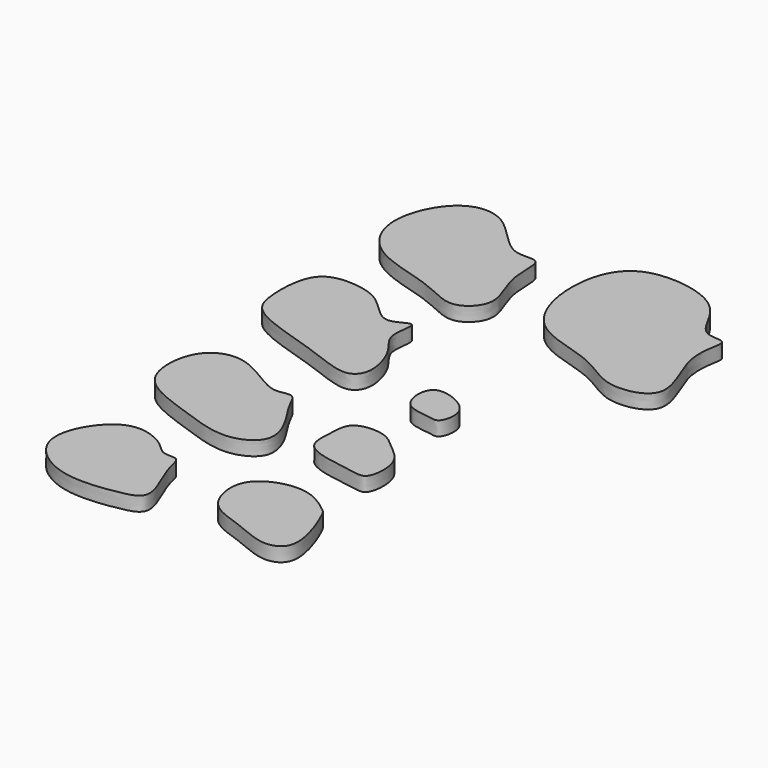
from build123d import *

# Parameters (mm, degrees)
F8_DEPTH  = 3.5
F9_DEPTH  = 3.5
F10_DEPTH = 3.5
F11_DEPTH = 3.5
F12_DEPTH = 3.5
F13_DEPTH = 3.5
F14_DEPTH = 3.5
F15_DEPTH = 3.5


with BuildPart() as f8:
    # F0 (on Top) → F8 (new body)
    with BuildSketch(Plane.XY):
        with BuildLine():
            add(Edge.make_bspline(
                [(-37.2361131012, 51.5277832747), (-38.2300729574, 52.3986394205), (-44.036762983, 50.2357705605), (-52.1517819646, 62.8871695915), (-64.3112124826, 62.6381784223), (-71.2933781765, 47.7331883556), (-64.2014965173, 34.439514822), (-47.3363921409, 31.8622921467), (-38.5041296174, 25.6709240677), (-30.9361444778, 33.0846962537), (-37.4475096921, 42.7405705933), (-36.0330480055, 50.473719948), (-37.2361131012, 51.5277832747)],
                knots=[0, 0, 0, 0, 0.0722302205, 0.1855815516, 0.2816265748, 0.3968802174, 0.5077571251, 0.6332956957, 0.7286909, 0.8102581589, 0.9125742789, 1, 1, 1, 1], degree=3))
        make_face()
    extrude(amount=F8_DEPTH)


with BuildPart() as f9:
    # F1 (on Top) → F9 (new body)
    with BuildSketch(Plane.XY):
        with BuildLine():
            add(Edge.make_bspline(
                [(-39.374999702, 16.1388907582), (-39.9706018324, 16.5570736635), (-43.5572313633, 13.7105187899), (-47.4507729776, 16.0055389472), (-51.5529559066, 20.8728551438), (-58.6426514585, 22.8566739948), (-67.8916688092, 21.865304743), (-68.4715177825, 8.5250902074), (-66.0766592679, 0.8310337431), (-47.8096208417, -3.6077008561), (-36.6089247376, -8.9961477478), (-32.5599229857, -4.2932170381), (-35.4535710781, 5.3391996361), (-40.6482535175, 9.3586760152), (-38.6782230309, 15.6496713987), (-39.374999702, 16.1388907582)],
                knots=[0, 0, 0, 0, 0.0566645698, 0.1133291397, 0.1828444039, 0.2583696855, 0.3348494574, 0.4292869367, 0.5047455088, 0.6243086788, 0.7197918927, 0.7765508651, 0.8614253251, 0.9337098571, 1, 1, 1, 1], degree=3))
        make_face()
    extrude(amount=F9_DEPTH)


with BuildPart() as f10:
    # F2 (on Top) → F10 (new body)
    with BuildSketch(Plane.XY):
        with BuildLine():
            add(Edge.make_bspline(
                [(-38.9407202601, -21.4738547802), (-39.808735709, -21.1059091638), (-42.5418178299, -22.2771971679), (-47.2649034002, -20.0313416168), (-56.0471002646, -14.0523899309), (-65.0972985376, -17.7025901746), (-66.4140947917, -29.040050469), (-61.8060691861, -35.730526621), (-50.0397159132, -39.5376123497), (-38.5156696524, -43.9091047558), (-29.5946990088, -39.1683094096), (-32.4936378223, -30.9030440648), (-36.7074525426, -25.4939692871), (-37.9623811258, -21.8885658275), (-38.9407202601, -21.4738547802)],
                knots=[0, 0, 0, 0, 0.0545762469, 0.122748102, 0.2188489766, 0.303770186, 0.3989442917, 0.4807650556, 0.5858692644, 0.6921141145, 0.7751768988, 0.8563333657, 0.9384871799, 1, 1, 1, 1], degree=3))
        make_face()
    extrude(amount=F10_DEPTH)


with BuildPart() as f11:
    # F3 (on Top) → F11 (new body)
    with BuildSketch(Plane.XY):
        with BuildLine():
            add(Edge.make_bspline(
                [(-42.9946780205, -55.449873209), (-44.172057105, -55.1145406864), (-45.9788351769, -52.4095776903), (-54.2022596236, -48.9469379985), (-61.5536493722, -54.2905594453), (-66.0277953127, -65.8967963216), (-54.3543427868, -75.7198506468), (-40.3577365253, -73.921032109), (-32.395227703, -71.9079808933), (-39.0222590376, -60.1990136169), (-39.0539842791, -55.0639973576), (-41.9726954063, -55.7409468425), (-42.9946780205, -55.449873209)],
                knots=[0, 0, 0, 0, 0.072811449, 0.1737262907, 0.276598737, 0.3931305473, 0.520856952, 0.6562508835, 0.740500741, 0.8621870269, 0.9367985757, 1, 1, 1, 1], degree=3))
        make_face()
    extrude(amount=F11_DEPTH)


with BuildPart() as f12:
    # F4 (on Top) → F12 (new body)
    with BuildSketch(Plane.XY):
        with BuildLine():
            add(Edge.make_bspline(
                [(-3.4203352407, -56.4150996506), (-3.8566779507, -55.5376813264), (-4.3714030554, -54.9598680577), (-10.2523231789, -50.3486296341), (-18.205143482, -50.6477696335), (-25.4173324177, -55.4462663891), (-22.9273697449, -67.144912344), (-13.4026847581, -69.2594720891), (-4.763888599, -73.9034091482), (2.516636292, -70.178273343), (-2.2716417808, -58.7249461717), (-3.4203352407, -56.4150996506)],
                knots=[0, 0, 0, 0, 0.0562452186, 0.160157557, 0.2740454565, 0.3841028225, 0.5086458094, 0.6322588701, 0.7571886109, 0.8519317195, 1, 1, 1, 1], degree=3))
        make_face()
    extrude(amount=F12_DEPTH)


with BuildPart() as f13:
    # F5 (on Top) → F13 (new body)
    with BuildSketch(Plane.XY):
        with BuildLine():
            add(Edge.make_bspline(
                [(-10.5630215257, -26.106948033), (-12.0046317075, -24.8660714663), (-14.5553496785, -22.2166133015), (-23.2917929138, -22.6810528851), (-23.1328666151, -29.0657261953), (-24.2052017226, -37.1276211134), (-10.8570777116, -38.3600626312), (-5.8120839839, -39.8995976639), (-5.2157144489, -30.1859688465), (-8.9965175817, -27.4553278242), (-10.5630215257, -26.106948033)],
                knots=[0, 0, 0, 0, 0.114747529, 0.2415580978, 0.3543966109, 0.4781338927, 0.6455502391, 0.743514592, 0.8753113296, 1, 1, 1, 1], degree=3))
        make_face()
    extrude(amount=F13_DEPTH)


with BuildPart() as f14:
    # F6 (on Top) → F14 (new body)
    with BuildSketch(Plane.XY):
        with BuildLine():
            add(Edge.make_bspline(
                [(-12.8795681521, -3.3275720198), (-14.6623751051, -2.3532196436), (-18.5648480613, -1.2325873983), (-20.8620729453, -4.8116631643), (-19.4071270858, -11.4895959342), (-12.97060263, -11.5480996976), (-9.9151978418, -12.7245085908), (-8.5307491178, -6.7631239894), (-11.1274387683, -4.2851582719), (-12.8795681521, -3.3275720198)],
                knots=[0, 0, 0, 0, 0.1568204171, 0.2783751998, 0.4373041843, 0.598039502, 0.7037019776, 0.8458780631, 1, 1, 1, 1], degree=3))
        make_face()
    extrude(amount=F14_DEPTH)


with BuildPart() as f15:
    # F7 (on Top) → F15 (new body)
    with BuildSketch(Plane.XY):
        with BuildLine():
            add(Edge.make_bspline(
                [(11.6372173652, 47.8295013309), (10.8860478046, 48.4084539596), (6.203858043, 47.5966838642), (3.2941074104, 55.8160528897), (-3.6593120915, 61.9674316504), (-22.0342025255, 63.4297088301), (-26.7448671502, 46.8035179653), (-21.1536162681, 29.0096560913), (-3.1045669452, 26.8051763729), (4.8599442465, 18.9356051948), (19.530189686, 22.1817309323), (10.5952925621, 36.987206693), (11.6976961784, 44.5489802139), (12.2296990893, 47.3728549627), (11.6372173652, 47.8295013309)],
                knots=[0, 0, 0, 0, 0.0544277039, 0.1263616005, 0.2060931321, 0.3079578532, 0.4068395977, 0.5132049463, 0.618419918, 0.7054599674, 0.7862011077, 0.882798097, 0.9570703853, 1, 1, 1, 1], degree=3))
        make_face()
    extrude(amount=F15_DEPTH)


solid = Compound([f8.part, f9.part, f10.part, f11.part, f12.part, f13.part, f14.part, f15.part])
